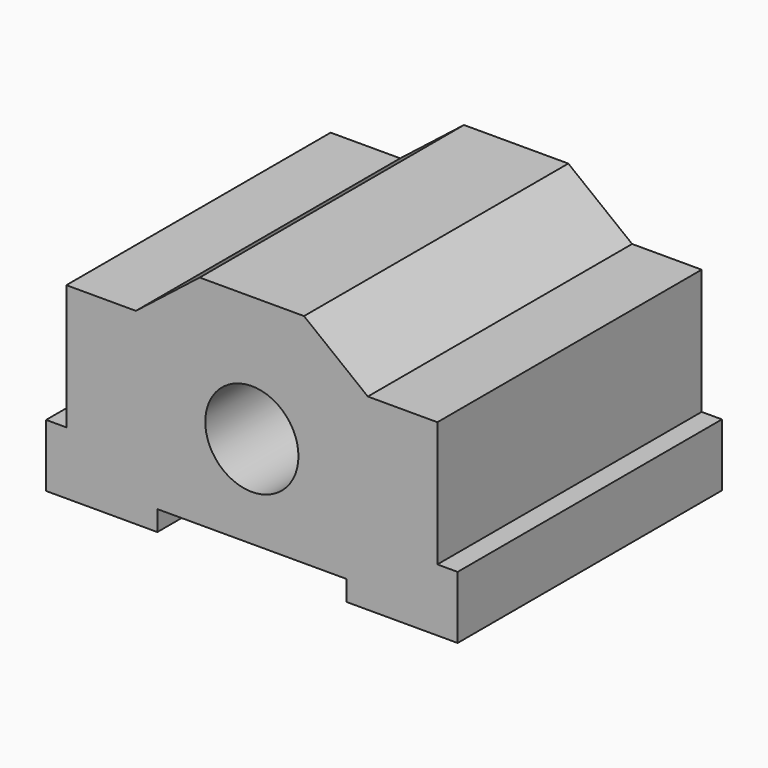
from build123d import *

# Parameters (mm, degrees)
F0_R     = 4.2545
F1_DEPTH = 15.08125


with BuildPart() as f1:
    # F0 (on Front) → F1 (new body, symmetric)
    with BuildSketch(Plane.XZ):
        Polygon((10.588473, 0), (4.7625, 4.572), (0, 4.572), (-4.7625, 4.572), (-10.588473, 0), (-16.938473, 0), (-16.938473, -11.43), (-18.787988, -11.43), (-18.787988, -17.145), (-8.627988, -17.145), (-8.627988, -15.295486), (0, -15.295486), (8.627988, -15.295486), (8.627988, -17.145), (18.787988, -17.145), (18.787988, -11.43), (16.938473, -11.43), (16.938473, 0), align=None)
        with Locations((0, -6.858)):
            Circle(F0_R, mode=Mode.SUBTRACT)
    extrude(amount=F1_DEPTH, both=True)


solid = f1.part
